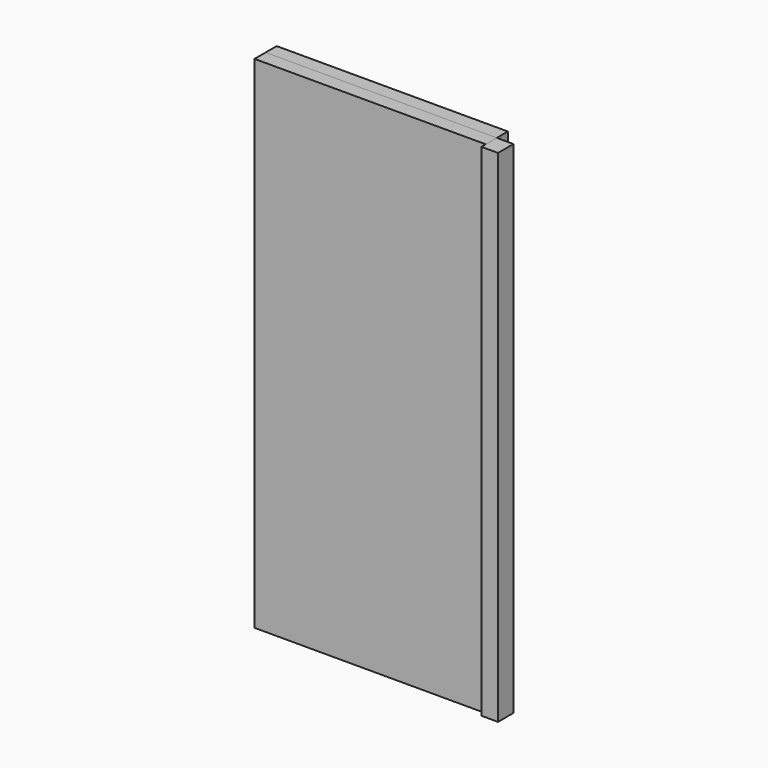
from build123d import *

# Parameters (mm, degrees)
F0_W     = 304.8
F0_H     = 660.4
F1_DEPTH = 18.25625
F2_W     = 21.954792
F2_H     = 660.4
F3_DEPTH = 25.4


with BuildPart() as f1:
    # F0 (on Front) → F1 (new body)
    with BuildSketch(Plane.XZ):
        Rectangle(F0_W, F0_H)
    extrude(amount=F1_DEPTH)


with BuildPart() as f3:
    # F2 (on face) → F3 (new body)
    with BuildSketch(Plane.XZ.offset(18.25625)):
        with Locations((163.377396, 0)):
            Rectangle(F2_W, F2_H)
    extrude(amount=F3_DEPTH)


with BuildPart() as f4_1:
    # F4: copy of F1
    add(f1.part.moved(Location((0, -18.25625, 0))))


solid = Compound([f1.part, f3.part, f4_1.part])
